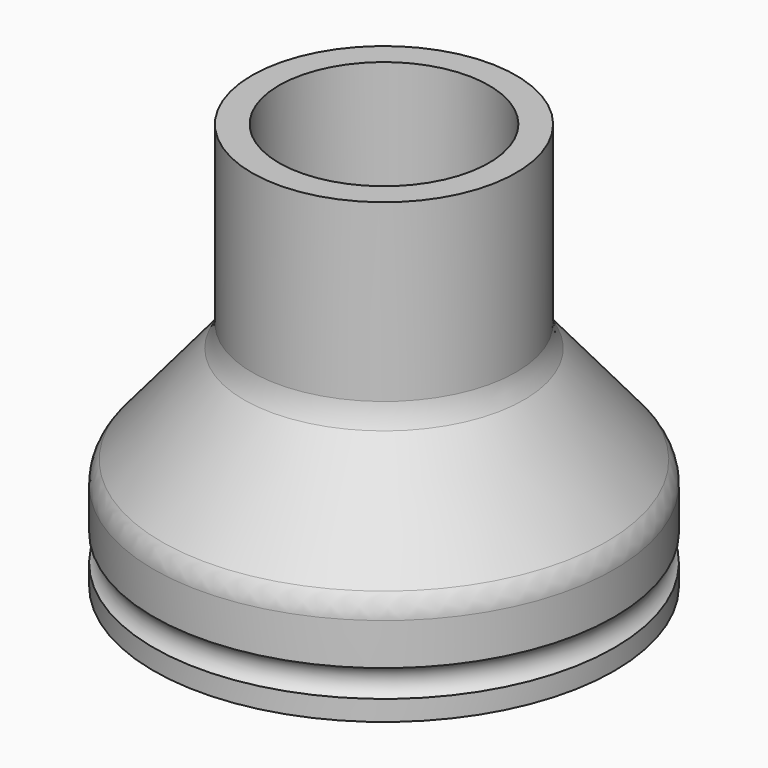
from build123d import *

# Parameters (mm, degrees)
F4_R     = 19.5
F4_R_2   = 14.5
F5_DEPTH = 3
F6_R     = 2.5
F8_R     = 10
F9_R     = 5
F10_R    = 5


with BuildPart() as f1:
    # F0 (on Front) → F1 (revolve)
    with BuildSketch(Plane.XZ):
        Polygon((-34, 0), (-30, 0), (-30, 12.6905989232), (-34, 15), align=None)
        Polygon((-34, 15), (-30, 12.6905989232), (-15.5, 29.9710260159), (-19.5, 32.2804270926), align=None)
        Polygon((-19.5, 32.2804270926), (-15.5, 29.9710260159), (-15.5, 60), (-19.5, 60), align=None)
    revolve(axis=Axis((0, 0, 34.7761163735), (0, 0, 1)))

    # F2 (on face) → F3 (join, up to the next surface of F1)
    with BuildSketch(Plane(origin=(0, 0, 0), x_dir=(1, 0, 0), z_dir=(0, 0, -1))):
        with BuildLine():
            ThreePointArc((-6.1229349178, -14.7820725202), (-11.313708499, -11.313708499), (-14.7820725202, -6.1229349178))
            Line((-14.7820725202, -6.1229349178), (-17.0917713515, -7.0796434988))
            ThreePointArc((-17.0917713515, -7.0796434988), (-13.081475452, -13.081475452), (-7.0796434988, -17.0917713515))
            Line((-7.0796434988, -17.0917713515), (-6.1229349178, -14.7820725202))
        make_face()
        with BuildLine():
            ThreePointArc((7.0796434988, -17.0917713515), (13.081475452, -13.081475452), (17.0917713515, -7.0796434988))
            Line((17.0917713515, -7.0796434988), (14.7820725202, -6.1229349178))
            ThreePointArc((14.7820725202, -6.1229349178), (11.313708499, -11.313708499), (6.1229349178, -14.7820725202))
            Line((6.1229349178, -14.7820725202), (7.0796434988, -17.0917713515))
        make_face()
        with BuildLine():
            Line((-17.0917713515, 7.0796434988), (-14.7820725202, 6.1229349178))
            ThreePointArc((-14.7820725202, 6.1229349178), (-11.313708499, 11.313708499), (-6.1229349178, 14.7820725202))
            Line((-6.1229349178, 14.7820725202), (-7.0796434988, 17.0917713515))
            ThreePointArc((-7.0796434988, 17.0917713515), (-13.081475452, 13.081475452), (-17.0917713515, 7.0796434988))
        make_face()
        with BuildLine():
            Line((14.7820725202, 6.1229349178), (17.0917713515, 7.0796434988))
            ThreePointArc((17.0917713515, 7.0796434988), (13.081475452, 13.081475452), (7.0796434988, 17.0917713515))
            Line((7.0796434988, 17.0917713515), (6.1229349178, 14.7820725202))
            ThreePointArc((6.1229349178, 14.7820725202), (11.313708499, 11.313708499), (14.7820725202, 6.1229349178))
        make_face()
    extrude(until=Until.NEXT, dir=(0, 0, 1))

    # F4 (on face) → F5 (join)
    with BuildSketch(Plane(origin=(0, 0, 0), x_dir=(1, 0, 0), z_dir=(0, 0, -1))):
        Circle(F4_R)
        Circle(F4_R_2, mode=Mode.SUBTRACT)
    extrude(amount=-F5_DEPTH)

    # F6 (on Front) → F7 (revolve, cut)
    with BuildSketch(Plane.XZ):
        with Locations((35.5, 5)):
            Circle(F6_R)
    revolve(axis=Axis((0, 0, 1.7348565161), (0, 0, 1)), mode=Mode.SUBTRACT)

    # F8
    f8_edges = [f1.edges().sort_by_distance(p)[0] for p in [
        (30, 0, 12.690599),
    ]]
    fillet(f8_edges, radius=F8_R)

    # F9
    f9_edges = [f1.edges().sort_by_distance(p)[0] for p in [
        (34, 0, 15),
    ]]
    fillet(f9_edges, radius=F9_R)

    # F10
    f10_edges = [f1.edges().sort_by_distance(p)[0] for p in [
        (19.5, 0, 32.280427),
    ]]
    fillet(f10_edges, radius=F10_R)


solid = f1.part
